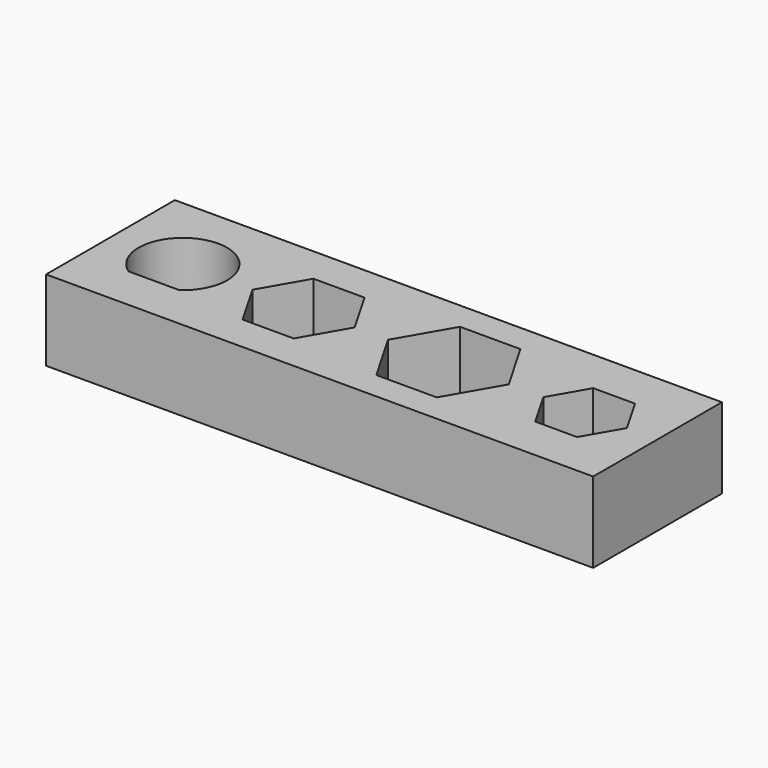
from build123d import *

# Parameters (mm, degrees)
F0_W     = 34
F0_H     = 10
F1_DEPTH = 5


with BuildPart() as f1:
    # F0 (on Top) → F1 (new body)
    with BuildSketch(Plane.XY):
        with Locations((5, 0)):
            Rectangle(F0_W, F0_H)
        with BuildLine():
            ThreePointArc((-9.081139, -2.25), (-8.767748, 2.440352), (-4.75, 0))
            ThreePointArc((-4.75, 0), (-5.059648, -1.267748), (-5.918861, -2.25))
            ThreePointArc((-5.918861, -2.25), (-7.5, -2.75), (-9.081139, -2.25))
        make_face(mode=Mode.SUBTRACT)
        Polygon((-3.175426, 0), (-1.587713, 2.75), (1.587713, 2.75), (3.175426, 0), (1.587713, -2.75), (-1.587713, -2.75), align=None, mode=Mode.SUBTRACT)
        Polygon((5.247223, 0), (7.123612, 3.25), (10.876388, 3.25), (12.752777, 0), (10.876388, -3.25), (7.123612, -3.25), align=None, mode=Mode.SUBTRACT)
        Polygon((20.098076, 0), (18.799038, -2.25), (16.200962, -2.25), (14.901924, 0), (16.200962, 2.25), (18.799038, 2.25), align=None, mode=Mode.SUBTRACT)
        with BuildLine():
            Line((-5.918861, -2.25), (-9.081139, -2.25))
            ThreePointArc((-9.081139, -2.25), (-7.5, -2.75), (-5.918861, -2.25))
        make_face()
    extrude(amount=F1_DEPTH)


solid = f1.part
